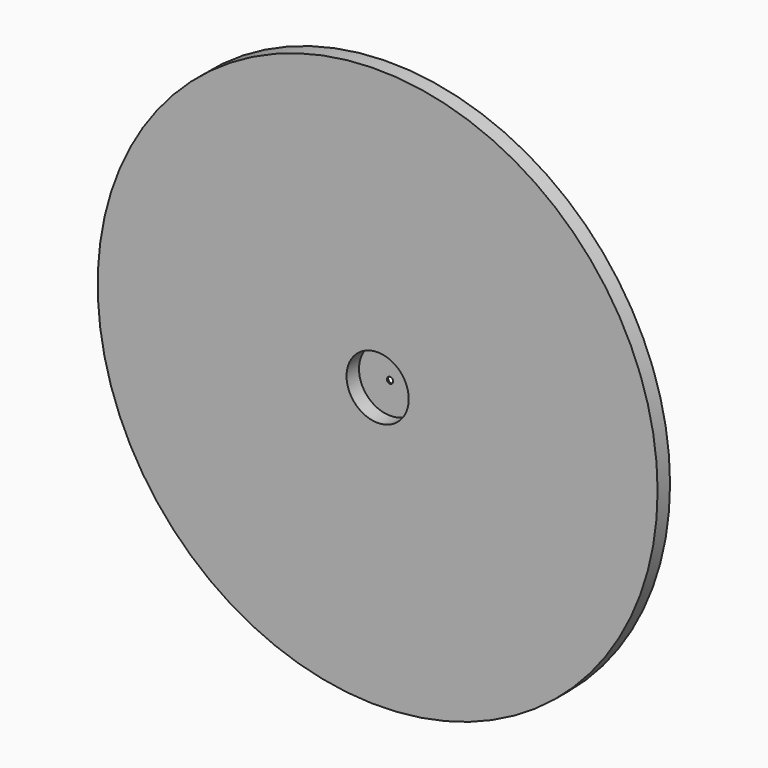
from build123d import *

# Parameters (mm, degrees)
F0_R     = 9
F0_R_2   = 1
F1_DEPTH = 0.5
F2_R     = 2.5
F2_R_2   = 0.1
F3_DEPTH = 0.05


with BuildPart() as f1:
    # F0 (on Front) → F1 (new body)
    with BuildSketch(Plane.XZ):
        Circle(F0_R)
        Circle(F0_R_2, mode=Mode.SUBTRACT)
    extrude(amount=-F1_DEPTH)

    # F2 (on face) → F3 (join)
    with BuildSketch(Plane(origin=(0, 0.5, 0), x_dir=(-1, 0, 0), z_dir=(0, 1, 0))):
        Circle(F2_R)
        Circle(F2_R_2, mode=Mode.SUBTRACT)
    extrude(amount=F3_DEPTH)


solid = f1.part
